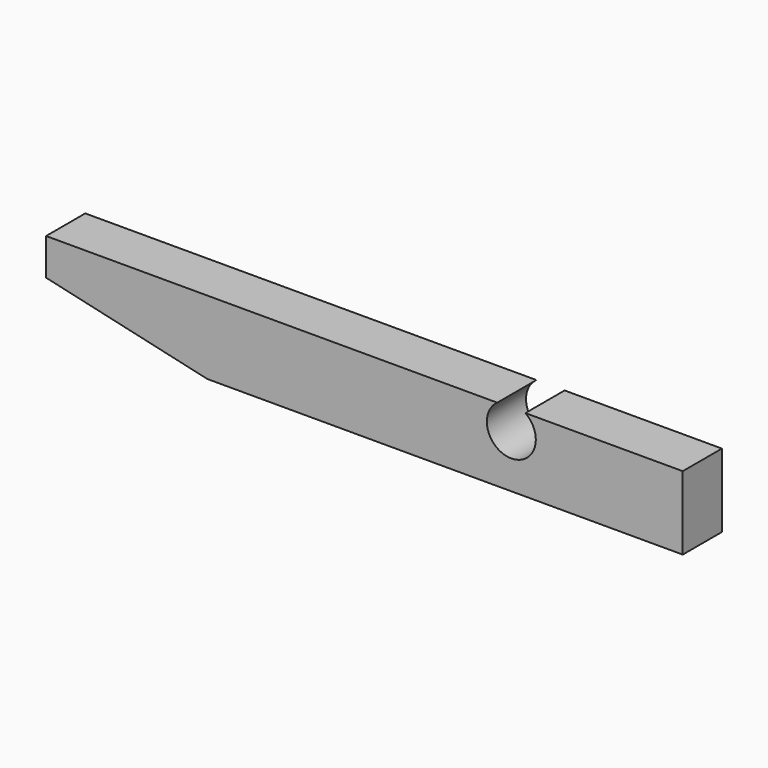
from build123d import *

# Parameters (mm, degrees)
F1_DEPTH = 6.35


with BuildPart() as f1:
    # F0 (on Front) → F1 (new body)
    with BuildSketch(Plane.XZ):
        with BuildLine():
            Line((17.2251, 4.7625), (-41.275, 4.7625))
            Line((-41.275, 4.7625), (-41.275, 0))
            Line((-41.275, 0), (-20.363268, -4.7625))
            Line((-20.363268, -4.7625), (41.275, -4.7625))
            Line((41.275, -4.7625), (41.275, 4.7625))
            Line((41.275, 4.7625), (20.8749, 4.7625))
            ThreePointArc((20.8749, 4.7625), (19.05, -1.010646), (17.2251, 4.7625))
        make_face()
    extrude(amount=F1_DEPTH)


solid = f1.part
